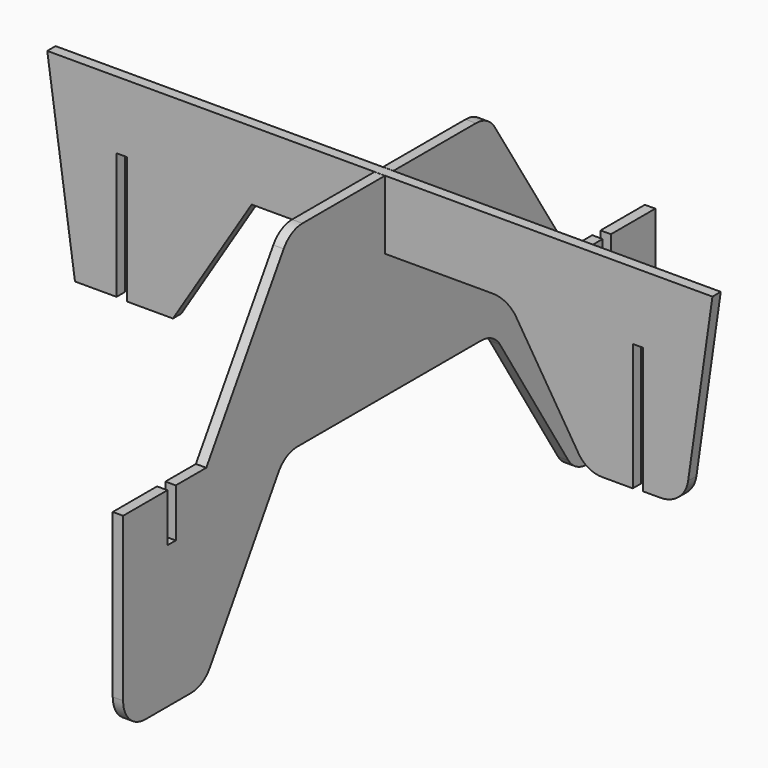
from build123d import *

# Parameters (mm, degrees)
F2_DEPTH = 9.525
F3_DEPTH = 9.525


with BuildPart() as f2:
    # F1 (on Right) → F2 (new body, symmetric)
    with BuildSketch(Plane.YZ):
        with BuildLine():
            Line((-508, -304.863728), (-609.6, -304.863728))
            Line((-609.6, -304.863728), (-609.6, -603.313728))
            ThreePointArc((-609.6, -603.313728), (-594.721024, -639.234752), (-558.8, -654.113728))
            Line((-558.8, -654.113728), (-453.6089, -654.113728))
            ThreePointArc((-453.6089, -654.113728), (-428.980571, -647.744409), (-410.528057, -630.233626))
            Line((-410.528057, -630.233626), (-253.839864, -379.480101))
            ThreePointArc((-253.839864, -379.480101), (-235.387349, -361.969319), (-210.759021, -355.6))
            Line((-210.759021, -355.6), (-3.96792, -355.6))
            Line((-3.96792, -355.6), (3.96792, -355.6))
            Line((3.96792, -355.6), (210.759021, -355.6))
            ThreePointArc((210.759021, -355.6), (235.387349, -361.969319), (253.839864, -379.480101))
            Line((253.839864, -379.480101), (410.528057, -630.233626))
            ThreePointArc((410.528057, -630.233626), (428.980571, -647.744409), (453.6089, -654.113728))
            Line((453.6089, -654.113728), (558.8, -654.113728))
            ThreePointArc((558.8, -654.113728), (594.721024, -639.234752), (609.6, -603.313728))
            Line((609.6, -603.313728), (609.6, -304.863728))
            Line((609.6, -304.863728), (508, -304.863728))
            Line((508, -304.863728), (508, -393.763728))
            Line((508, -393.763728), (488.95, -393.763728))
            Line((488.95, -393.763728), (488.95, -304.863728))
            Line((488.95, -304.863728), (419.1, -304.863728))
            Line((419.1, -304.863728), (241.758068, -23.698924))
            ThreePointArc((241.758068, -23.698924), (223.325691, -6.317562), (198.790967, 0))
            Line((198.790967, 0), (9.84157, 0))
            Line((9.84157, 0), (9.84157, -123.825))
            Line((9.84157, -123.825), (0, -123.825))
            Line((0, -123.825), (-9.84157, -123.825))
            Line((-9.84157, -123.825), (-9.84157, 0))
            Line((-9.84157, 0), (-198.790967, 0))
            ThreePointArc((-198.790967, 0), (-223.325691, -6.317562), (-241.758068, -23.698924))
            Line((-241.758068, -23.698924), (-419.1, -304.863728))
            Line((-419.1, -304.863728), (-488.95, -304.863728))
            Line((-488.95, -304.863728), (-488.95, -393.763728))
            Line((-488.95, -393.763728), (-508, -393.763728))
            Line((-508, -393.763728), (-508, -304.863728))
        make_face()
    extrude(amount=F2_DEPTH, both=True)


with BuildPart() as f3:
    # F0 (on Front) → F3 (new body, symmetric)
    with BuildSketch(Plane.XZ):
        with BuildLine():
            Line((609.6, 0), (0, 0))
            Line((0, 0), (-609.6, 0))
            Line((-609.6, 0), (-558.8, -355.6))
            Line((-558.8, -355.6), (-482.6, -355.6))
            Line((-482.6, -355.6), (-482.6, -123.825))
            Line((-482.6, -123.825), (-463.55, -123.825))
            Line((-463.55, -123.825), (-463.55, -356.921328))
            Line((-463.55, -356.921328), (-379.232623, -356.921328))
            Line((-379.232623, -356.921328), (-234.95, -126.020864))
            Line((-234.95, -126.020864), (0, -126.020864))
            Line((0, -126.020864), (206.7911, -126.020864))
            ThreePointArc((206.7911, -126.020864), (231.419429, -132.390183), (249.871943, -149.900966))
            Line((249.871943, -149.900966), (364.31068, -333.041227))
            ThreePointArc((364.31068, -333.041227), (382.763194, -350.552009), (407.391523, -356.921328))
            Line((407.391523, -356.921328), (463.55, -356.921328))
            Line((463.55, -356.921328), (463.55, -123.825))
            Line((463.55, -123.825), (482.6, -123.825))
            Line((482.6, -123.825), (482.6, -355.6))
            Line((482.6, -355.6), (514.741394, -355.6))
            ThreePointArc((514.741394, -355.6), (548.025642, -343.177061), (565.030828, -311.984205))
            Line((565.030828, -311.984205), (609.6, 0))
        make_face()
    extrude(amount=F3_DEPTH, both=True)


solid = Compound([f2.part, f3.part])
